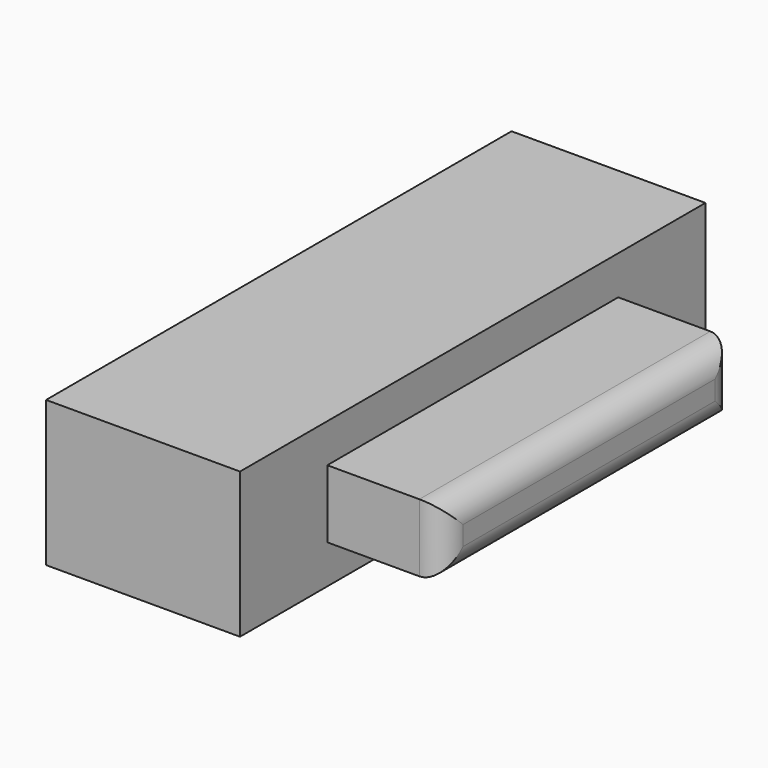
from build123d import *

# Parameters (mm, degrees)
F0_W     = 30.48
F0_H     = 7.62
F0_W_2   = 19.05
F0_H_2   = 3.556
F1_DEPTH = 10.16
F2_W     = 19.05
F2_H     = 3.556
F3_DEPTH = 6.096
F4_R     = 1.27


with BuildPart() as f1:
    # F0 (on Right) → F1 (new body)
    with BuildSketch(Plane.YZ):
        Rectangle(F0_W, F0_H)
        Rectangle(F0_W_2, F0_H_2, mode=Mode.SUBTRACT)
        Rectangle(F0_W_2, F0_H_2)
    extrude(amount=-F1_DEPTH)

    # F2 (on face) → F3 (join)
    with BuildSketch(Plane.YZ):
        Rectangle(F2_W, F2_H)
    extrude(amount=F3_DEPTH)

    # F4
    f4_edges = [f1.edges().sort_by_distance(p)[0] for p in [
        (6.096, 0, 1.778),
        (6.096, -9.525, 0),
        (6.096, 0, -1.778),
        (6.096, 9.525, 0),
    ]]
    fillet(f4_edges, radius=F4_R)


solid = f1.part
